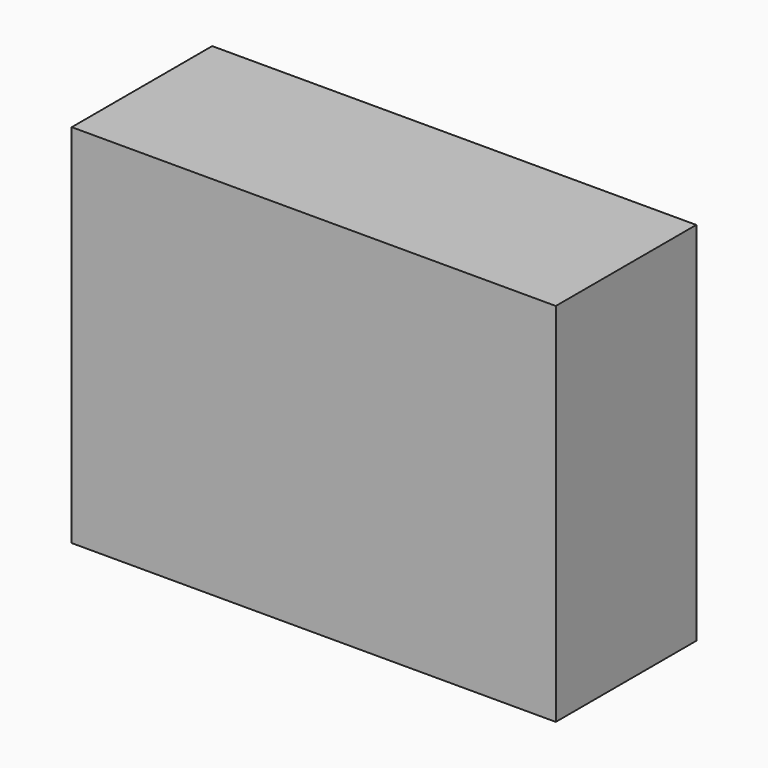
from build123d import *

# Parameters (mm, degrees)
F0_W     = 19.3
F0_H     = 14.6
F1_DEPTH = 7
F2_W     = 5
F2_H     = 12.7
F3_DEPTH = 10
F4_W     = 2
F4_H     = 11
F5_DEPTH = 10


with BuildPart() as f1:
    # F0 (on Front) → F1 (new body)
    with BuildSketch(Plane.XZ):
        with Locations((9.65, 7.3)):
            Rectangle(F0_W, F0_H)
    extrude(amount=F1_DEPTH)

    # F2 (on face) → F3 (cut)
    with BuildSketch(Plane(origin=(0, 0, 0), x_dir=(0, -1, 0), z_dir=(-1, 0, 0))):
        with Locations((3.5, 7.3)):
            Rectangle(F2_W, F2_H)
    extrude(amount=-F3_DEPTH, mode=Mode.SUBTRACT)

    # F4 (on face) → F5 (join)
    with BuildSketch(Plane(origin=(10, 0, 0), x_dir=(0, -1, 0), z_dir=(-1, 0, 0))):
        with Locations((4.2, 7.3)):
            Rectangle(F4_W, F4_H)
    extrude(amount=F5_DEPTH)


solid = f1.part
